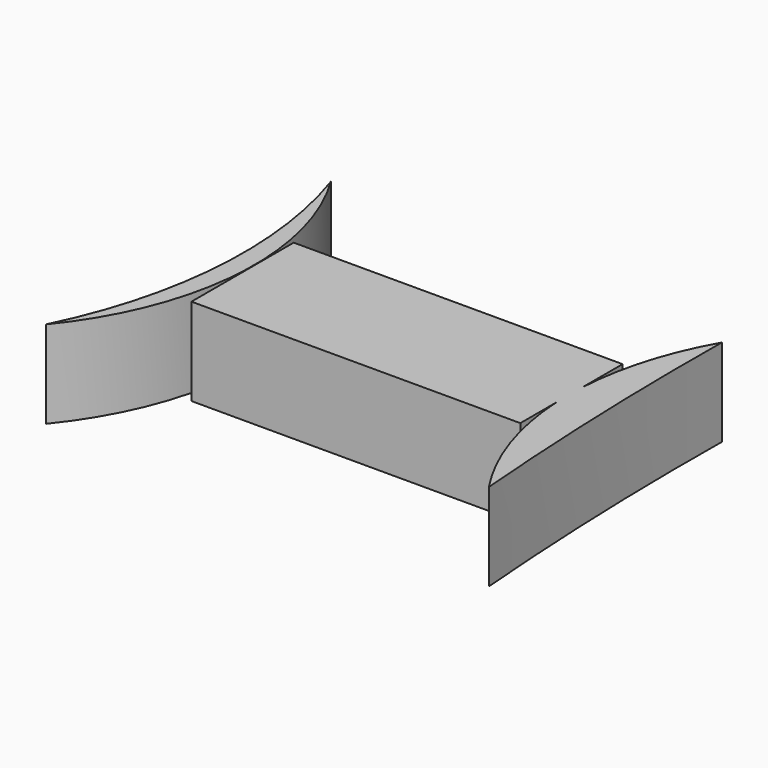
from build123d import *

# Parameters (mm, degrees)
F2_DEPTH = 25
F0_W     = 93.93
F0_H     = 36.5
F3_DEPTH = 25


with BuildPart() as f2:
    # F1 (on Top) → F2 (new body)
    with BuildSketch(Plane.XY):
        with BuildLine():
            ThreePointArc((-58.914475, 46.480265), (-52.952149, -0.937875), (-65.427631, -47.07237))
            ThreePointArc((-65.427631, -47.07237), (-47.266503, -1.333711), (-58.914475, 46.480265))
        make_face()
        with BuildLine():
            ThreePointArc((60.760615, -46.735203), (58.220086, -3.271736), (57.730261, 40.263161))
            ThreePointArc((57.730261, 40.263161), (46.884992, -3.666564), (60.760615, -46.735203))
        make_face()
    extrude(amount=F2_DEPTH)

    # F0 (on Top) → F3 (join)
    with BuildSketch(Plane.XY):
        Rectangle(F0_W, F0_H)
    extrude(amount=F3_DEPTH)


solid = f2.part
